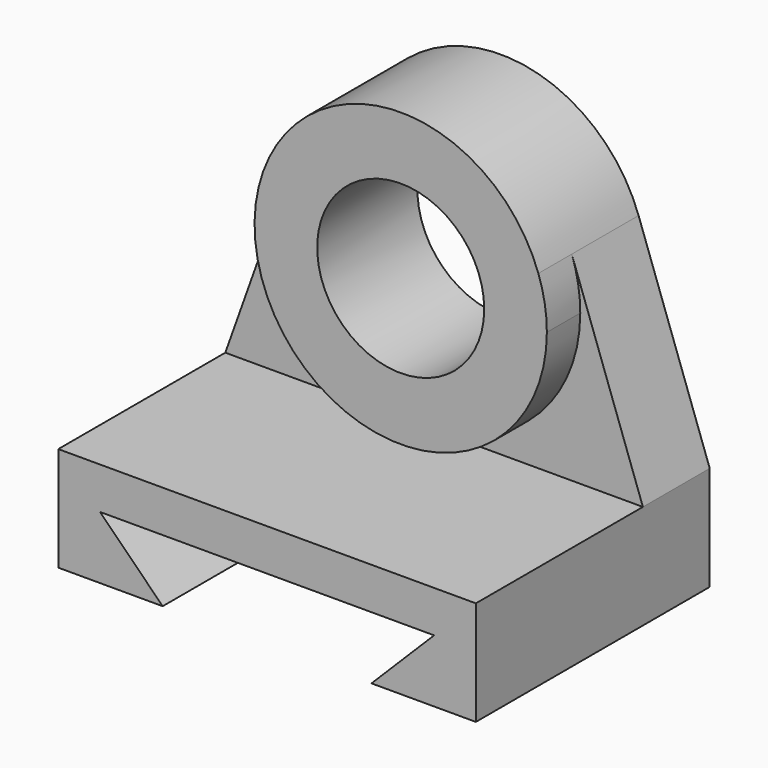
from build123d import *

# Parameters (mm, degrees)
F1_DEPTH = 127
F0_R     = 50.8
F2_DEPTH = 50.8
F3_DEPTH = 25.4


with BuildPart() as f1:
    # F0 (on Front) → F1 (new body)
    with BuildSketch(Plane.XZ):
        Polygon((254, 67.73278), (254, 131.23278), (0, 131.23278), (0, 67.73278), (63.5, 67.73278), (25.4, 105.83278), (228.6, 105.83278), (190.5, 67.73278), align=None)
    extrude(amount=F1_DEPTH)

    # F0 (on Front) → F2 (join)
    with BuildSketch(Plane.XZ):
        with BuildLine():
            ThreePointArc((215.9, 222.67278), (214.598787, 237.8274), (210.733239, 252.53839))
            ThreePointArc((210.733239, 252.53839), (127, 311.57278), (43.266761, 252.53839))
            ThreePointArc((43.266761, 252.53839), (111.84538, 135.073993), (215.9, 222.67278))
        make_face()
        with Locations((127, 222.67278)):
            Circle(F0_R, mode=Mode.SUBTRACT)
        with BuildLine():
            Line((0, 131.23278), (254, 131.23278))
            Line((254, 131.23278), (210.733239, 252.53839))
            ThreePointArc((210.733239, 252.53839), (214.598787, 237.8274), (215.9, 222.67278))
            ThreePointArc((215.9, 222.67278), (111.84538, 135.073993), (43.266761, 252.53839))
            Line((43.266761, 252.53839), (0, 131.23278))
        make_face()
        Polygon((254, 67.73278), (254, 131.23278), (0, 131.23278), (0, 67.73278), (63.5, 67.73278), (25.4, 105.83278), (228.6, 105.83278), (190.5, 67.73278), align=None)
    extrude(amount=-F2_DEPTH)

    # F0 (on Front) → F3 (join)
    with BuildSketch(Plane.XZ):
        with BuildLine():
            ThreePointArc((215.9, 222.67278), (214.598787, 237.8274), (210.733239, 252.53839))
            ThreePointArc((210.733239, 252.53839), (127, 311.57278), (43.266761, 252.53839))
            ThreePointArc((43.266761, 252.53839), (111.84538, 135.073993), (215.9, 222.67278))
        make_face()
        with Locations((127, 222.67278)):
            Circle(F0_R, mode=Mode.SUBTRACT)
    extrude(amount=F3_DEPTH)


solid = f1.part
